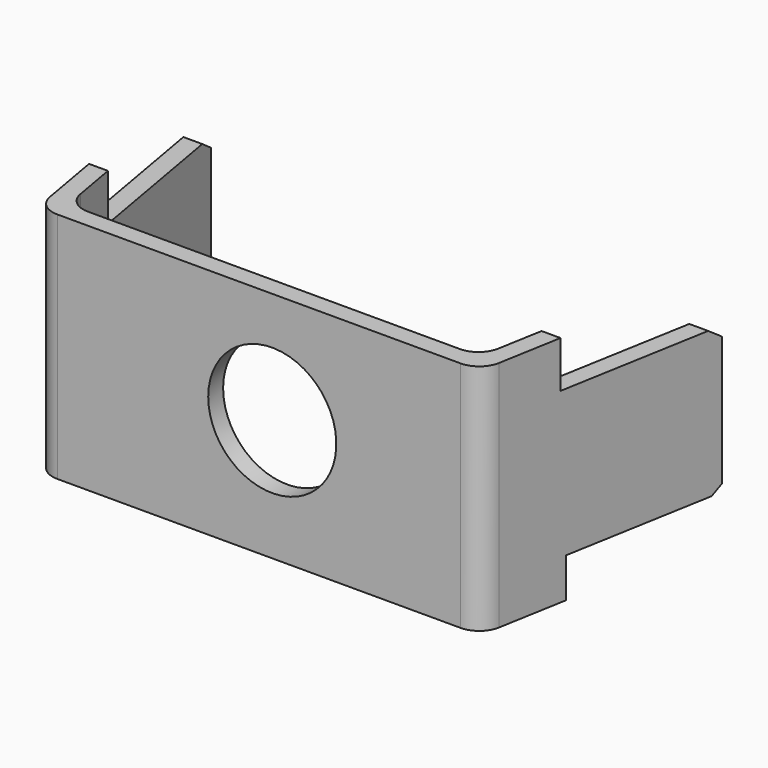
from build123d import *

# Parameters (mm, degrees)
PAD_DEPTH         = 10
POCKET_DEPTH      = 20.903093
POCKET_DEPTH_BACK = -1.903093
SKETCH002_R       = 2.75
HOLE_DEPTH        = 25
FILLET_R          = 1


with BuildPart() as part:
    # Sketch → Pad (new body)
    with BuildSketch(Plane.XY):
        Polygon((0, 0), (19, 0), (20.902093, 10.787306), (20.114247, 10.926225), (18.32872, 0.8), (0.67128, 0.8), (-1.114247, 10.926225), (-1.902093, 10.787306), align=None)
    extrude(amount=PAD_DEPTH)

    # Sketch001 (on DatumPlane) → Pocket (cut, two sides)
    with BuildSketch(Plane(origin=(0, 0.8, 0), x_dir=(0, -1, 0), z_dir=(-1, 0, 0))) as pocket_sk:
        Polygon((-2.732161, 10.911916), (-2.732161, 7.99998), (-9.228047, 7.99998), (-9.832161, 7.576975), (-9.832161, 2.015372), (-9.381735, 1.69998), (-2.985139, 1.69998), (-2.985139, -3.596473), (-13.732095, -3.596473), (-13.732095, 10.911916), align=None)
    extrude(amount=-POCKET_DEPTH, mode=Mode.SUBTRACT)
    extrude(pocket_sk.sketch, amount=-POCKET_DEPTH_BACK, mode=Mode.SUBTRACT)

    # Sketch002 (on Face21 of Pocket) → Hole (cut)
    with BuildSketch(Plane(origin=(0, 0.8, 0), x_dir=(-1, 0, 0), z_dir=(0, 1, 0))):
        with Locations((-10.071387, 5.216614)):
            Circle(SKETCH002_R)
    extrude(amount=-HOLE_DEPTH, mode=Mode.SUBTRACT)

    # Fillet
    fillet_edges = [part.edges().sort_by_distance(p)[0] for p in [
        (19, 0, 5),
        (0, 0, 5),
        (0.67128, 0.8, 5),
        (18.32872, 0.8, 5),
    ]]
    fillet(fillet_edges, radius=FILLET_R)


solid = part.part
